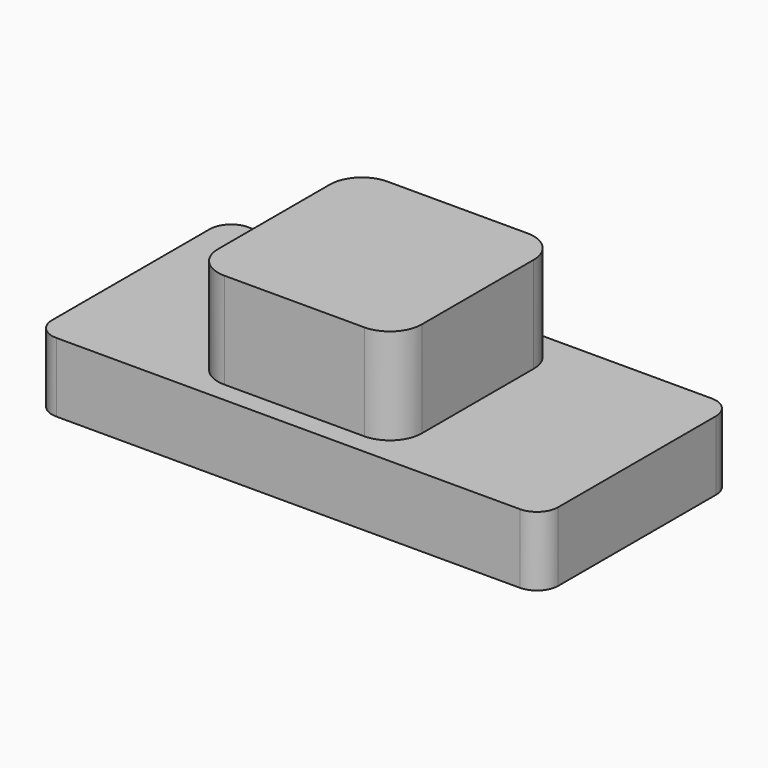
from build123d import *

# Parameters (mm, degrees)
F0_W     = 38.25
F0_H     = 38.25
F1_DEPTH = 31
F0_W_2   = 95
F0_H_2   = 45
F2_DEPTH = 13
F3_R     = 6
F4_R     = 4


with BuildPart() as f1:
    # F0 (on Top) → F1 (new body)
    with BuildSketch(Plane.XY):
        with Locations((-1.875, 0.435483)):
            Rectangle(F0_W, F0_H)
    extrude(amount=F1_DEPTH)

    # F0 (on Top) → F2 (join)
    with BuildSketch(Plane.XY):
        Rectangle(F0_W_2, F0_H_2)
        with Locations((-1.875, 0.435483)):
            Rectangle(F0_W, F0_H, mode=Mode.SUBTRACT)
    extrude(amount=F2_DEPTH)

    # F3
    f3_edges = [f1.edges().sort_by_distance(p)[0] for p in [
        (-21, 19.560483, 22),
        (-21, -18.689517, 22),
        (17.25, -18.689517, 22),
        (17.25, 19.560483, 22),
    ]]
    fillet(f3_edges, radius=F3_R)

    # F4
    f4_edges = [f1.edges().sort_by_distance(p)[0] for p in [
        (47.5, -22.5, 6.5),
        (47.5, 22.5, 6.5),
        (-47.5, -22.5, 6.5),
        (-47.5, 22.5, 6.5),
    ]]
    fillet(f4_edges, radius=F4_R)


solid = f1.part
